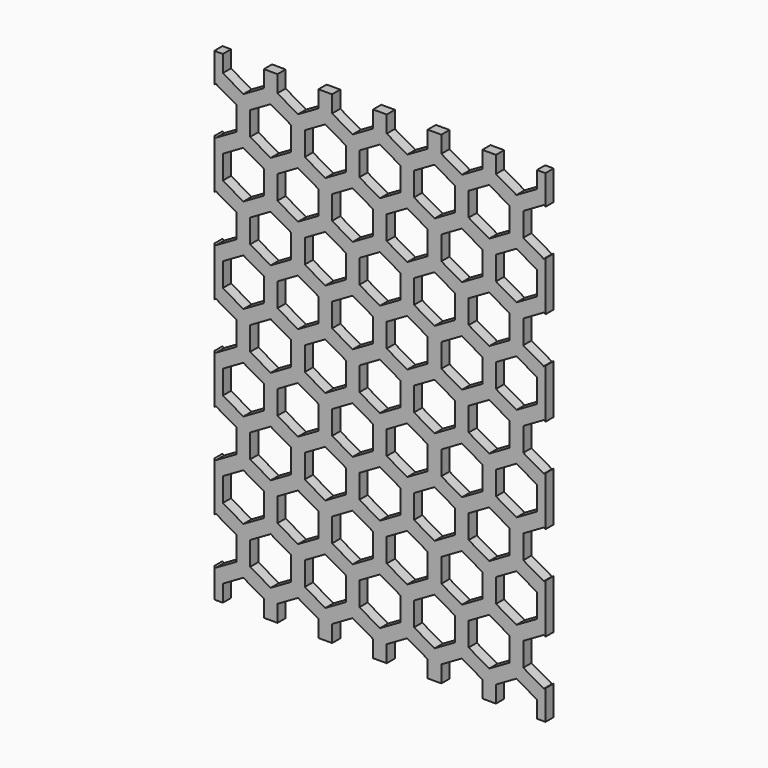
from build123d import *

# Parameters (mm, degrees)
F1_DEPTH = 3


with BuildPart() as f1:
    # F0 (on Front) → F1 (new body)
    with BuildSketch(Plane.XZ):
        Polygon((46, -70.75), (48.5, -70.75), (48.5, -62.065154), (48, -62.353829), (42, -58.889727), (42, -51.961524), (48, -48.497423), (48.5, -48.786098), (48.5, -34.352341), (48, -34.641016), (42, -31.176915), (42, -24.248711), (48, -20.78461), (48.5, -21.073285), (48.5, -6.639528), (48, -6.928203), (42, -3.464102), (42, 3.464102), (48, 6.928203), (48.5, 6.639528), (48.5, 21.073285), (48, 20.78461), (42, 24.248711), (42, 31.176915), (48, 34.641016), (48.5, 34.352341), (48.5, 48.786098), (48, 48.497423), (42, 51.961524), (42, 58.889727), (48, 62.353829), (48.5, 62.065154), (48.5, 70.75), (46, 70.75), (46, 65.817931), (40, 62.353829), (34, 65.817931), (34, 70.75), (30, 70.75), (30, 65.817931), (24, 62.353829), (18, 65.817931), (18, 70.75), (14, 70.75), (14, 65.817931), (8, 62.353829), (2, 65.817931), (2, 70.75), (-2, 70.75), (-2, 65.817931), (-8, 62.353829), (-14, 65.817931), (-14, 70.75), (-18, 70.75), (-18, 65.817931), (-24, 62.353829), (-30, 65.817931), (-30, 70.75), (-34, 70.75), (-34, 65.817931), (-40, 62.353829), (-46, 65.817931), (-46, 70.75), (-48.5, 70.75), (-48.5, 62.065154), (-48, 62.353829), (-42, 58.889727), (-42, 51.961524), (-48, 48.497423), (-48.5, 48.786098), (-48.5, 34.352341), (-48, 34.641016), (-42, 31.176915), (-42, 24.248711), (-48, 20.78461), (-48.5, 21.073285), (-48.5, 6.639528), (-48, 6.928203), (-42, 3.464102), (-42, -3.464102), (-48, -6.928203), (-48.5, -6.639528), (-48.5, -21.073285), (-48, -20.78461), (-42, -24.248711), (-42, -31.176915), (-48, -34.641016), (-48.5, -34.352341), (-48.5, -48.786098), (-48, -48.497423), (-42, -51.961524), (-42, -58.889727), (-48, -62.353829), (-48.5, -62.065154), (-48.5, -70.75), (-46, -70.75), (-46, -65.817931), (-40, -62.353829), (-34, -65.817931), (-34, -70.75), (-30, -70.75), (-30, -65.817931), (-24, -62.353829), (-18, -65.817931), (-18, -70.75), (-14, -70.75), (-14, -65.817931), (-8, -62.353829), (-2, -65.817931), (-2, -70.75), (2, -70.75), (2, -65.817931), (8, -62.353829), (14, -65.817931), (14, -70.75), (18, -70.75), (18, -65.817931), (24, -62.353829), (30, -65.817931), (30, -70.75), (34, -70.75), (34, -65.817931), (40, -62.353829), (46, -65.817931), align=None)
        Polygon((-26, -51.961524), (-26, -58.889727), (-32, -62.353829), (-38, -58.889727), (-38, -51.961524), (-32, -48.497423), align=None, mode=Mode.SUBTRACT)
        Polygon((-46, -38.105118), (-40, -34.641016), (-34, -38.105118), (-34, -45.033321), (-40, -48.497423), (-46, -45.033321), align=None, mode=Mode.SUBTRACT)
        Polygon((-22, -58.889727), (-22, -51.961524), (-16, -48.497423), (-10, -51.961524), (-10, -58.889727), (-16, -62.353829), align=None, mode=Mode.SUBTRACT)
        Polygon((-30, -45.033321), (-30, -38.105118), (-24, -34.641016), (-18, -38.105118), (-18, -45.033321), (-24, -48.497423), align=None, mode=Mode.SUBTRACT)
        Polygon((-14, -45.033321), (-14, -38.105118), (-8, -34.641016), (-2, -38.105118), (-2, -45.033321), (-8, -48.497423), align=None, mode=Mode.SUBTRACT)
        Polygon((-38, -24.248711), (-32, -20.78461), (-26, -24.248711), (-26, -31.176915), (-32, -34.641016), (-38, -31.176915), align=None, mode=Mode.SUBTRACT)
        Polygon((-46, -10.392305), (-40, -6.928203), (-34, -10.392305), (-34, -17.320508), (-40, -20.78461), (-46, -17.320508), align=None, mode=Mode.SUBTRACT)
        Polygon((-22, -31.176915), (-22, -24.248711), (-16, -20.78461), (-10, -24.248711), (-10, -31.176915), (-16, -34.641016), align=None, mode=Mode.SUBTRACT)
        Polygon((-30, -17.320508), (-30, -10.392305), (-24, -6.928203), (-18, -10.392305), (-18, -17.320508), (-24, -20.78461), align=None, mode=Mode.SUBTRACT)
        Polygon((-14, -10.392305), (-8, -6.928203), (-2, -10.392305), (-2, -17.320508), (-8, -20.78461), (-14, -17.320508), align=None, mode=Mode.SUBTRACT)
        Polygon((-6, -58.889727), (-6, -51.961524), (0, -48.497423), (6, -51.961524), (6, -58.889727), (0, -62.353829), align=None, mode=Mode.SUBTRACT)
        Polygon((14, -45.033321), (8, -48.497423), (2, -45.033321), (2, -38.105118), (8, -34.641016), (14, -38.105118), align=None, mode=Mode.SUBTRACT)
        Polygon((16, -62.353829), (10, -58.889727), (10, -51.961524), (16, -48.497423), (22, -51.961524), (22, -58.889727), align=None, mode=Mode.SUBTRACT)
        Polygon((24, -34.641016), (30, -38.105118), (30, -45.033321), (24, -48.497423), (18, -45.033321), (18, -38.105118), align=None, mode=Mode.SUBTRACT)
        Polygon((32, -62.353829), (26, -58.889727), (26, -51.961524), (32, -48.497423), (38, -51.961524), (38, -58.889727), align=None, mode=Mode.SUBTRACT)
        Polygon((46, -45.033321), (40, -48.497423), (34, -45.033321), (34, -38.105118), (40, -34.641016), (46, -38.105118), align=None, mode=Mode.SUBTRACT)
        Polygon((-6, -24.248711), (0, -20.78461), (6, -24.248711), (6, -31.176915), (0, -34.641016), (-6, -31.176915), align=None, mode=Mode.SUBTRACT)
        Polygon((10, -24.248711), (16, -20.78461), (22, -24.248711), (22, -31.176915), (16, -34.641016), (10, -31.176915), align=None, mode=Mode.SUBTRACT)
        Polygon((8, -6.928203), (14, -10.392305), (14, -17.320508), (8, -20.78461), (2, -17.320508), (2, -10.392305), align=None, mode=Mode.SUBTRACT)
        Polygon((24, -6.928203), (30, -10.392305), (30, -17.320508), (24, -20.78461), (18, -17.320508), (18, -10.392305), align=None, mode=Mode.SUBTRACT)
        Polygon((26, -24.248711), (32, -20.78461), (38, -24.248711), (38, -31.176915), (32, -34.641016), (26, -31.176915), align=None, mode=Mode.SUBTRACT)
        Polygon((40, -6.928203), (46, -10.392305), (46, -17.320508), (40, -20.78461), (34, -17.320508), (34, -10.392305), align=None, mode=Mode.SUBTRACT)
        Polygon((-38, 3.464102), (-32, 6.928203), (-26, 3.464102), (-26, -3.464102), (-32, -6.928203), (-38, -3.464102), align=None, mode=Mode.SUBTRACT)
        Polygon((-40, 20.78461), (-34, 17.320508), (-34, 10.392305), (-40, 6.928203), (-46, 10.392305), (-46, 17.320508), align=None, mode=Mode.SUBTRACT)
        Polygon((-26, 24.248711), (-32, 20.78461), (-38, 24.248711), (-38, 31.176915), (-32, 34.641016), (-26, 31.176915), align=None, mode=Mode.SUBTRACT)
        Polygon((-16, -6.928203), (-22, -3.464102), (-22, 3.464102), (-16, 6.928203), (-10, 3.464102), (-10, -3.464102), align=None, mode=Mode.SUBTRACT)
        Polygon((-18, 10.392305), (-24, 6.928203), (-30, 10.392305), (-30, 17.320508), (-24, 20.78461), (-18, 17.320508), align=None, mode=Mode.SUBTRACT)
        Polygon((-2, 10.392305), (-8, 6.928203), (-14, 10.392305), (-14, 17.320508), (-8, 20.78461), (-2, 17.320508), align=None, mode=Mode.SUBTRACT)
        Polygon((-16, 34.641016), (-10, 31.176915), (-10, 24.248711), (-16, 20.78461), (-22, 24.248711), (-22, 31.176915), align=None, mode=Mode.SUBTRACT)
        Polygon((-34, 38.105118), (-40, 34.641016), (-46, 38.105118), (-46, 45.033321), (-40, 48.497423), (-34, 45.033321), align=None, mode=Mode.SUBTRACT)
        Polygon((-32, 62.353829), (-26, 58.889727), (-26, 51.961524), (-32, 48.497423), (-38, 51.961524), (-38, 58.889727), align=None, mode=Mode.SUBTRACT)
        Polygon((-24, 48.497423), (-18, 45.033321), (-18, 38.105118), (-24, 34.641016), (-30, 38.105118), (-30, 45.033321), align=None, mode=Mode.SUBTRACT)
        Polygon((-16, 48.497423), (-22, 51.961524), (-22, 58.889727), (-16, 62.353829), (-10, 58.889727), (-10, 51.961524), align=None, mode=Mode.SUBTRACT)
        Polygon((-8, 48.497423), (-2, 45.033321), (-2, 38.105118), (-8, 34.641016), (-14, 38.105118), (-14, 45.033321), align=None, mode=Mode.SUBTRACT)
        Polygon((0, 6.928203), (6, 3.464102), (6, -3.464102), (0, -6.928203), (-6, -3.464102), (-6, 3.464102), align=None, mode=Mode.SUBTRACT)
        Polygon((8, 20.78461), (14, 17.320508), (14, 10.392305), (8, 6.928203), (2, 10.392305), (2, 17.320508), align=None, mode=Mode.SUBTRACT)
        Polygon((16, -6.928203), (10, -3.464102), (10, 3.464102), (16, 6.928203), (22, 3.464102), (22, -3.464102), align=None, mode=Mode.SUBTRACT)
        Polygon((30, 17.320508), (30, 10.392305), (24, 6.928203), (18, 10.392305), (18, 17.320508), (24, 20.78461), align=None, mode=Mode.SUBTRACT)
        Polygon((0, 20.78461), (-6, 24.248711), (-6, 31.176915), (0, 34.641016), (6, 31.176915), (6, 24.248711), align=None, mode=Mode.SUBTRACT)
        Polygon((16, 20.78461), (10, 24.248711), (10, 31.176915), (16, 34.641016), (22, 31.176915), (22, 24.248711), align=None, mode=Mode.SUBTRACT)
        Polygon((32, -6.928203), (26, -3.464102), (26, 3.464102), (32, 6.928203), (38, 3.464102), (38, -3.464102), align=None, mode=Mode.SUBTRACT)
        Polygon((46, 17.320508), (46, 10.392305), (40, 6.928203), (34, 10.392305), (34, 17.320508), (40, 20.78461), align=None, mode=Mode.SUBTRACT)
        Polygon((32, 20.78461), (26, 24.248711), (26, 31.176915), (32, 34.641016), (38, 31.176915), (38, 24.248711), align=None, mode=Mode.SUBTRACT)
        Polygon((14, 45.033321), (14, 38.105118), (8, 34.641016), (2, 38.105118), (2, 45.033321), (8, 48.497423), align=None, mode=Mode.SUBTRACT)
        Polygon((0, 48.497423), (-6, 51.961524), (-6, 58.889727), (0, 62.353829), (6, 58.889727), (6, 51.961524), align=None, mode=Mode.SUBTRACT)
        Polygon((30, 45.033321), (30, 38.105118), (24, 34.641016), (18, 38.105118), (18, 45.033321), (24, 48.497423), align=None, mode=Mode.SUBTRACT)
        Polygon((16, 48.497423), (10, 51.961524), (10, 58.889727), (16, 62.353829), (22, 58.889727), (22, 51.961524), align=None, mode=Mode.SUBTRACT)
        Polygon((46, 45.033321), (46, 38.105118), (40, 34.641016), (34, 38.105118), (34, 45.033321), (40, 48.497423), align=None, mode=Mode.SUBTRACT)
        Polygon((32, 48.497423), (26, 51.961524), (26, 58.889727), (32, 62.353829), (38, 58.889727), (38, 51.961524), align=None, mode=Mode.SUBTRACT)
    extrude(amount=F1_DEPTH)


solid = f1.part
